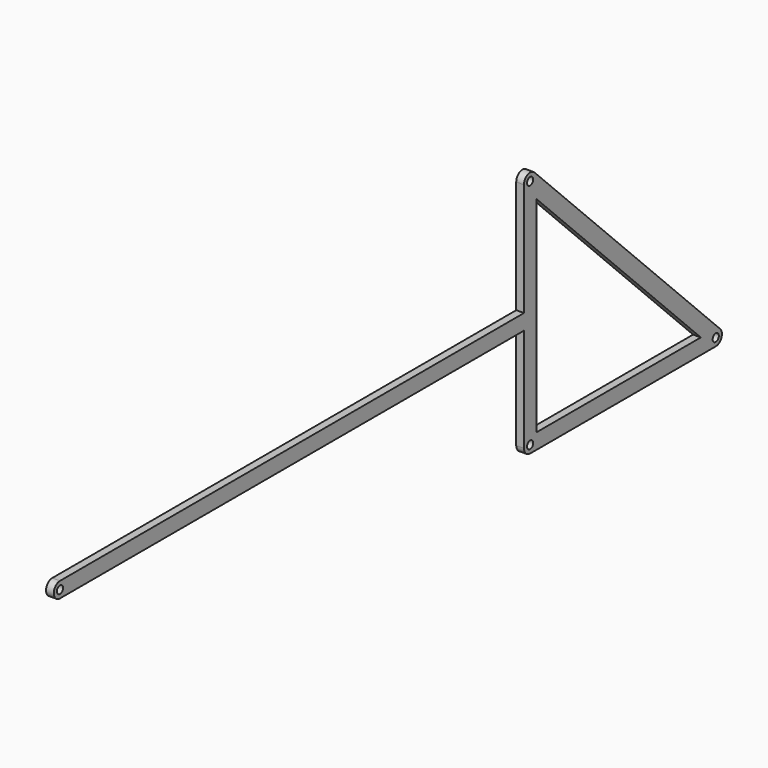
from build123d import *

# Parameters (mm, degrees)
F0_R     = 6.35
F1_DEPTH = 12.7


with BuildPart() as f1:
    # F0 (on Right) → F1 (new body)
    with BuildSketch(Plane.YZ):
        with BuildLine():
            ThreePointArc((-8.9802561211, -8.9802561211), (-11.7332700629, -4.860079591), (-12.7, 0))
            Line((-12.7, 0), (-12.7, -185.42))
            Line((-12.7, -185.42), (0, -185.42))
            ThreePointArc((0, -185.42), (8.9802561211, -189.1397438789), (12.7, -198.12))
            Line((12.7, -198.12), (12.7, -30.6605122421))
            Line((12.7, -30.6605122421), (-8.9802561211, -8.9802561211))
        make_face()
        with BuildLine():
            Line((0, -185.42), (-12.7, -185.42))
            Line((-12.7, -185.42), (-12.7, -210.82))
            Line((-12.7, -210.82), (0, -210.82))
            ThreePointArc((0, -210.82), (8.9802561211, -207.1002561211), (12.7, -198.12))
            ThreePointArc((12.7, -198.12), (8.9802561211, -189.1397438789), (0, -185.42))
        make_face()
        with BuildLine():
            Line((-12.7, -210.82), (-12.7, -381))
            ThreePointArc((-12.7, -381), (-8.9802561211, -372.0197438789), (0, -368.3))
            Line((0, -368.3), (12.7, -368.3))
            Line((12.7, -368.3), (12.7, -198.12))
            ThreePointArc((12.7, -198.12), (8.9802561211, -207.1002561211), (0, -210.82))
            Line((0, -210.82), (-12.7, -210.82))
        make_face()
        with BuildLine():
            Line((0, -393.7), (381, -393.7))
            ThreePointArc((381, -393.7), (376.139920409, -392.7332700629), (372.0197438789, -389.9802561211))
            Line((372.0197438789, -389.9802561211), (350.3394877579, -368.3))
            Line((350.3394877579, -368.3), (12.7, -368.3))
            Line((12.7, -368.3), (12.7, -381))
            ThreePointArc((12.7, -381), (8.9802561211, -389.9802561211), (0, -393.7))
        make_face()
        with BuildLine():
            ThreePointArc((381, -393.7), (392.7332700629, -385.860079591), (389.9802561211, -372.0197438789))
            ThreePointArc((389.9802561211, -372.0197438789), (385.860079591, -369.2667299371), (381, -368.3))
            Line((381, -368.3), (350.3394877579, -368.3))
            Line((350.3394877579, -368.3), (372.0197438789, -389.9802561211))
            ThreePointArc((372.0197438789, -389.9802561211), (376.139920409, -392.7332700629), (381, -393.7))
        make_face()
        with Locations((381, -381)):
            Circle(F0_R, mode=Mode.SUBTRACT)
        with BuildLine():
            ThreePointArc((381, -368.3), (385.860079591, -369.2667299371), (389.9802561211, -372.0197438789))
            Line((389.9802561211, -372.0197438789), (8.9802561211, 8.9802561211))
            ThreePointArc((8.9802561211, 8.9802561211), (-4.860079591, 11.7332700629), (-12.7, 0))
            ThreePointArc((-12.7, 0), (-11.7332700629, -4.860079591), (-8.9802561211, -8.9802561211))
            Line((-8.9802561211, -8.9802561211), (12.7, -30.6605122421))
            Line((12.7, -30.6605122421), (350.3394877579, -368.3))
            Line((350.3394877579, -368.3), (381, -368.3))
        make_face()
        Circle(F0_R, mode=Mode.SUBTRACT)
        with BuildLine():
            ThreePointArc((-12.7, -381), (-8.9802561211, -389.9802561211), (0, -393.7))
            ThreePointArc((0, -393.7), (8.9802561211, -389.9802561211), (12.7, -381))
            Line((12.7, -381), (12.7, -368.3))
            Line((12.7, -368.3), (0, -368.3))
            ThreePointArc((0, -368.3), (-8.9802561211, -372.0197438789), (-12.7, -381))
        make_face()
        with Locations((0, -381)):
            Circle(F0_R, mode=Mode.SUBTRACT)
        with BuildLine():
            ThreePointArc((-8.9802561211, -8.9802561211), (-11.7332700629, -4.860079591), (-12.7, 0))
            Line((-12.7, 0), (-12.7, -185.42))
            Line((-12.7, -185.42), (0, -185.42))
            ThreePointArc((0, -185.42), (8.9802561211, -189.1397438789), (12.7, -198.12))
            Line((12.7, -198.12), (12.7, -30.6605122421))
            Line((12.7, -30.6605122421), (-8.9802561211, -8.9802561211))
        make_face()
        with BuildLine():
            Line((-12.7, -210.82), (-12.7, -185.42))
            Line((-12.7, -185.42), (-965.2, -185.42))
            ThreePointArc((-965.2, -185.42), (-977.9, -198.12), (-965.2, -210.82))
            Line((-965.2, -210.82), (-12.7, -210.82))
        make_face()
        with Locations((-965.2, -198.12)):
            Circle(F0_R, mode=Mode.SUBTRACT)
        with BuildLine():
            Line((-12.7, -210.82), (-12.7, -381))
            ThreePointArc((-12.7, -381), (-8.9802561211, -372.0197438789), (0, -368.3))
            Line((0, -368.3), (12.7, -368.3))
            Line((12.7, -368.3), (12.7, -198.12))
            ThreePointArc((12.7, -198.12), (8.9802561211, -207.1002561211), (0, -210.82))
            Line((0, -210.82), (-12.7, -210.82))
        make_face()
    extrude(amount=F1_DEPTH)


solid = f1.part
